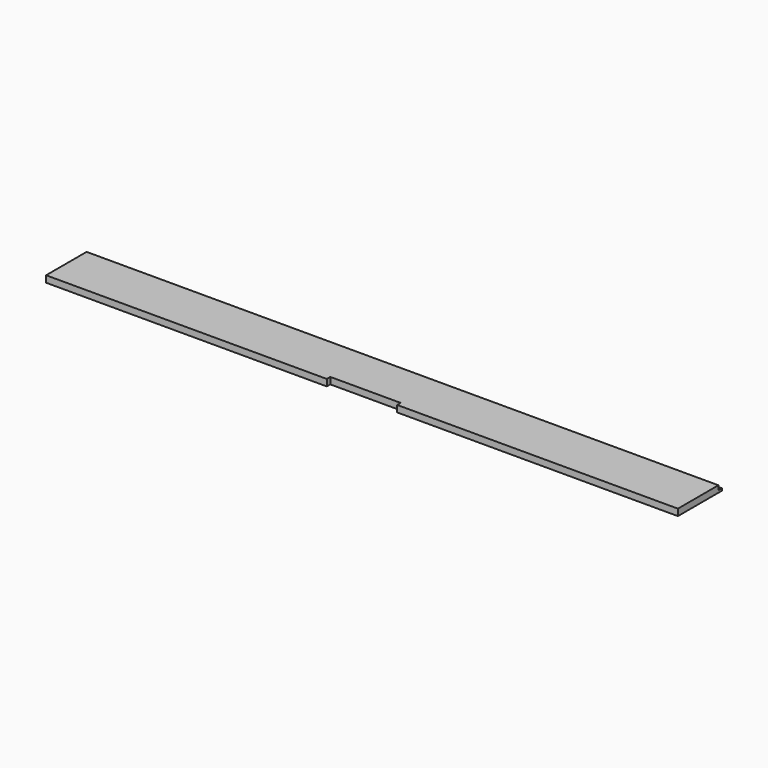
from build123d import *

# Parameters (mm, degrees)
PAD_DEPTH    = 3
PAD001_DEPTH = 1


with BuildPart() as part:
    # Sketch → Pad (new body)
    with BuildSketch(Plane.XY):
        Polygon((-143.5, 11.5), (-143.5, -11.5), (-16, -11.5), (-16, -9.5), (16, -9.5), (16, -11.5), (143.5, -11.5), (143.5, 11.5), align=None)
    extrude(amount=PAD_DEPTH)

    # Sketch001 (on Face9 of Pad) → Pad001 (join)
    with BuildSketch(Plane(origin=(0, 0, 0), x_dir=(1, 0, 0), z_dir=(0, 0, -1))):
        Polygon((-143.5, 11.5), (-143.5, -13.5), (143.5, -13.5), (143.5, 11.5), (16, 11.5), (16, 9.5), (-16, 9.5), (-16, 11.5), align=None)
    extrude(amount=-PAD001_DEPTH)


solid = part.part
